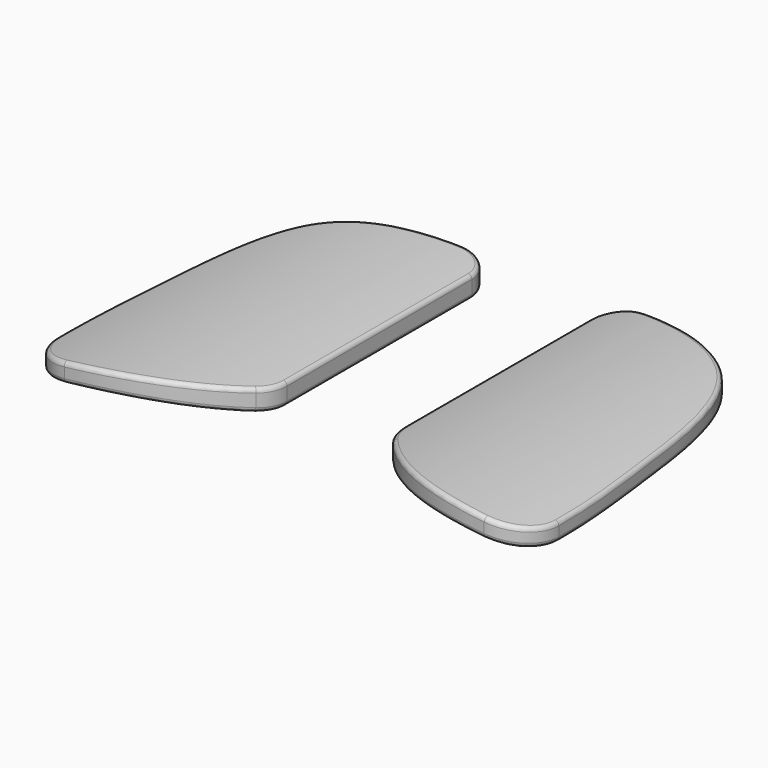
from build123d import *

# Parameters (mm, degrees)
F2_DEPTH      = 5
F4_DEPTH      = 17.0566164118
F4_DEPTH_BACK = 23.3087824265
F5_R          = 5
F6_R          = 0.5


with BuildPart() as f2:
    # F1 (on Top) → F2 (new body)
    with BuildSketch(Plane.XY):
        with BuildLine():
            ThreePointArc((-2.3019459855, 17.0319932782), (-4.7902111913, 16.2592590996), (-5.8603042041, 13.8836575359))
            Line((-5.8603042041, 13.8836575359), (-5.8603042041, -14.4962908494))
            ThreePointArc((-5.8603042041, -14.4962908494), (3.7944651343, -22.1302569312), (16.0976330067, -22.4824918228))
            add(Edge.make_bspline(
                [(16.0976330067, -22.4824918228), (16.6765779747, -16.3947933234), (15.4303208568, -4.5918039594), (13.5168705263, 13.8096533049), (1.3533990386, 16.3194594251), (-1.17860021, 16.8941235537), (-2.3019459855, 17.0319932782)],
                knots=[0, 0, 0, 0, 0.318929244, 0.6212651413, 0.8583418557, 1, 1, 1, 1], degree=3))
        make_face()
    extrude(amount=F2_DEPTH)

    # F3 (on Front) → F4 (cut, two sides)
    with BuildSketch(Plane.XZ) as f4_sk:
        with BuildLine():
            ThreePointArc((-6.2293568626, 2.5973161682), (5.4239884517, 3.8025092264), (17.0191419594, 2.1275875996))
            Line((17.0191419594, 2.1275875996), (19.2741116397, 2.5973161682))
            Line((19.2741116397, 2.5973161682), (18.1629061699, 6.8354145624))
            Line((18.1629061699, 6.8354145624), (-6.2293568626, 7.3598397889))
            Line((-6.2293568626, 7.3598397889), (-8.3000263233, 5.6391606497))
            Line((-8.3000263233, 5.6391606497), (-6.2293568626, 2.5973161682))
        make_face()
        with BuildLine():
            Line((18.5110066086, -4.5823119581), (16.9759243727, 0))
            ThreePointArc((16.9759243727, 0), (5.3224384319, 1.5441505158), (-6.3310475089, 0))
            Line((-6.3310475089, 0), (-8.5712848231, -1.7975014634))
            Line((-8.5712848231, -1.7975014634), (-6.2293568626, -4.5823119581))
            Line((-6.2293568626, -4.5823119581), (18.5110066086, -4.5823119581))
        make_face()
    extrude(amount=-F4_DEPTH, mode=Mode.SUBTRACT)
    extrude(f4_sk.sketch, amount=F4_DEPTH_BACK, mode=Mode.SUBTRACT)

    # F5
    f5_edges = [f2.edges().sort_by_distance(p)[0] for p in [
        (16.097633, -22.482492, 1.29844),
        (-5.860304, -14.496291, 1.402494),
    ]]
    fillet(f5_edges, radius=F5_R)

    # F6
    f6_edges = [f2.edges().sort_by_distance(p)[0] for p in [
        (-5.860304, 0.502774, 0.124238),
        (-5.574528, -14.544272, 0.196996),
        (-4.778912, 16.269208, 0.38905),
        (2.526265, -21.618102, 1.456698),
        (14.21983, 4.37992, 0.650635),
        (14.918496, -21.752396, 0.503065),
        (2.538066, -21.62335, 3.773391),
        (-5.574961, -14.543048, 2.743153),
        (14.917349, -21.753587, 2.650811),
        (-5.860304, 0.502774, 2.68075),
        (14.22066, 4.375977, 2.802052),
        (-4.782258, 16.266272, 2.906934),
    ]]
    fillet(f6_edges, radius=F6_R)


with BuildPart() as f8_1:
    # F8: instance of F2
    add(f2.part.mirror(Plane.YZ.offset(-12.7)))


solid = Compound([f2.part, f8_1.part])
